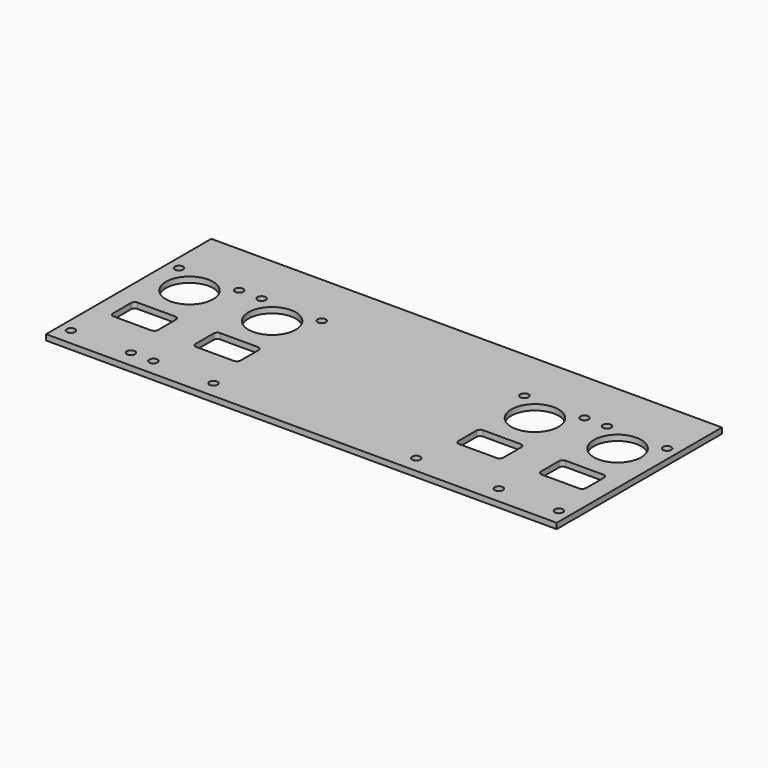
from build123d import *

# Parameters (mm, degrees)
F0_W     = 136
F0_H     = 55
F0_R     = 1.1
F0_R_2   = 6.3
F1_DEPTH = 1.5


with BuildPart() as f1:
    # F0 (on Top) → F1 (new body)
    with BuildSketch(Plane.XY):
        Rectangle(F0_W, F0_H)
        with Locations((-65, -23)):
            Circle(F0_R, mode=Mode.SUBTRACT)
        with Locations((-49, -23)):
            Circle(F0_R, mode=Mode.SUBTRACT)
        with Locations((-43, -23)):
            Circle(F0_R, mode=Mode.SUBTRACT)
        with Locations((-27, -23)):
            Circle(F0_R, mode=Mode.SUBTRACT)
        with BuildLine():
            ThreePointArc((-51, -11.5), (-51.292893, -12.207107), (-52, -12.5))
            Line((-52, -12.5), (-62, -12.5))
            ThreePointArc((-62, -12.5), (-62.707107, -12.207107), (-63, -11.5))
            Line((-63, -11.5), (-63, -5.5))
            ThreePointArc((-63, -5.5), (-62.707107, -4.792893), (-62, -4.5))
            Line((-62, -4.5), (-52, -4.5))
            ThreePointArc((-52, -4.5), (-51.292893, -4.792893), (-51, -5.5))
            Line((-51, -5.5), (-51, -11.5))
        make_face(mode=Mode.SUBTRACT)
        with BuildLine():
            Line((-41, -11.5), (-41, -5.5))
            ThreePointArc((-41, -5.5), (-40.707107, -4.792893), (-40, -4.5))
            Line((-40, -4.5), (-30, -4.5))
            ThreePointArc((-30, -4.5), (-29.292893, -4.792893), (-29, -5.5))
            Line((-29, -5.5), (-29, -11.5))
            ThreePointArc((-29, -11.5), (-29.292893, -12.207107), (-30, -12.5))
            Line((-30, -12.5), (-40, -12.5))
            ThreePointArc((-40, -12.5), (-40.707107, -12.207107), (-41, -11.5))
        make_face(mode=Mode.SUBTRACT)
        with Locations((27, -23)):
            Circle(F0_R, mode=Mode.SUBTRACT)
        with Locations((49, -23)):
            Circle(F0_R, mode=Mode.SUBTRACT)
        with Locations((65, -23)):
            Circle(F0_R, mode=Mode.SUBTRACT)
        with BuildLine():
            ThreePointArc((30, -12.5), (29.292893, -12.207107), (29, -11.5))
            Line((29, -11.5), (29, -5.5))
            ThreePointArc((29, -5.5), (29.292893, -4.792893), (30, -4.5))
            Line((30, -4.5), (40, -4.5))
            ThreePointArc((40, -4.5), (40.707107, -4.792893), (41, -5.5))
            Line((41, -5.5), (41, -11.5))
            ThreePointArc((41, -11.5), (40.707107, -12.207107), (40, -12.5))
            Line((40, -12.5), (30, -12.5))
        make_face(mode=Mode.SUBTRACT)
        with BuildLine():
            Line((52, -4.5), (62, -4.5))
            ThreePointArc((62, -4.5), (62.707107, -4.792893), (63, -5.5))
            Line((63, -5.5), (63, -11.5))
            ThreePointArc((63, -11.5), (62.707107, -12.207107), (62, -12.5))
            Line((62, -12.5), (52, -12.5))
            ThreePointArc((52, -12.5), (51.292893, -12.207107), (51, -11.5))
            Line((51, -11.5), (51, -5.5))
            ThreePointArc((51, -5.5), (51.292893, -4.792893), (52, -4.5))
        make_face(mode=Mode.SUBTRACT)
        with Locations((-57, 6.5)):
            Circle(F0_R_2, mode=Mode.SUBTRACT)
        with Locations((-35, 6.5)):
            Circle(F0_R_2, mode=Mode.SUBTRACT)
        with Locations((-65, 13)):
            Circle(F0_R, mode=Mode.SUBTRACT)
        with Locations((-49, 13)):
            Circle(F0_R, mode=Mode.SUBTRACT)
        with Locations((-43, 13)):
            Circle(F0_R, mode=Mode.SUBTRACT)
        with Locations((-27, 13)):
            Circle(F0_R, mode=Mode.SUBTRACT)
        with Locations((27, 13)):
            Circle(F0_R, mode=Mode.SUBTRACT)
        with Locations((35, 6.5)):
            Circle(F0_R_2, mode=Mode.SUBTRACT)
        with Locations((57, 6.5)):
            Circle(F0_R_2, mode=Mode.SUBTRACT)
        with Locations((43, 13)):
            Circle(F0_R, mode=Mode.SUBTRACT)
        with Locations((49, 13)):
            Circle(F0_R, mode=Mode.SUBTRACT)
        with Locations((65, 13)):
            Circle(F0_R, mode=Mode.SUBTRACT)
    extrude(amount=F1_DEPTH)


solid = f1.part
